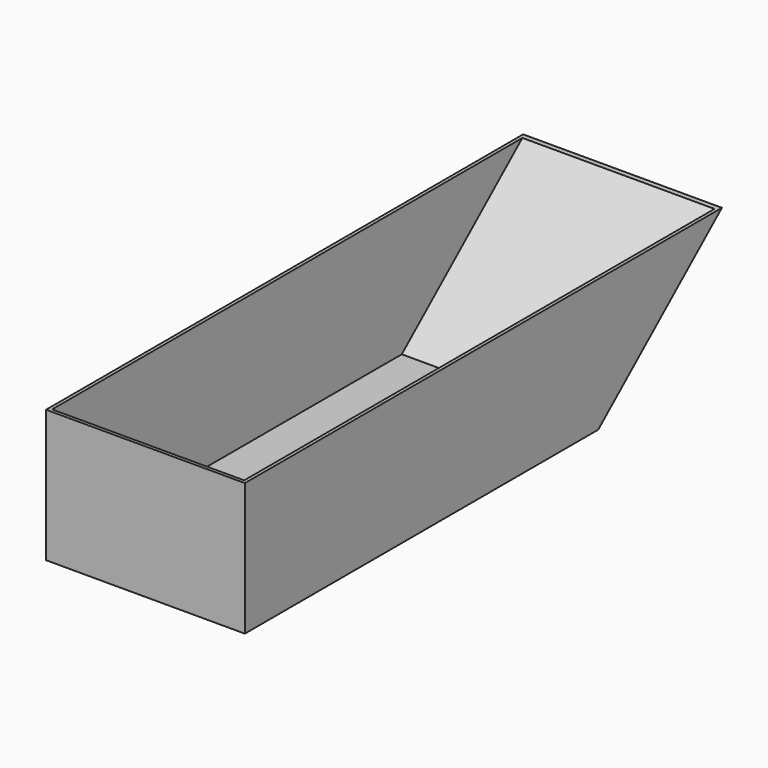
from build123d import *

# Parameters (mm, degrees)
F1_DEPTH = 180
F2_T     = -3


with BuildPart() as f1:
    # F0 (on Right) → F1 (new body)
    with BuildSketch(Plane.YZ):
        Polygon((-200, 60), (-200, -60), (200, -60), (340, 60), (200, 60), align=None)
    extrude(amount=F1_DEPTH)

    # F2
    f2_openings = [f1.faces().sort_by_distance(p)[0] for p in [
        (90, 70, 60),
    ]]
    offset(amount=F2_T, openings=f2_openings)


solid = f1.part
